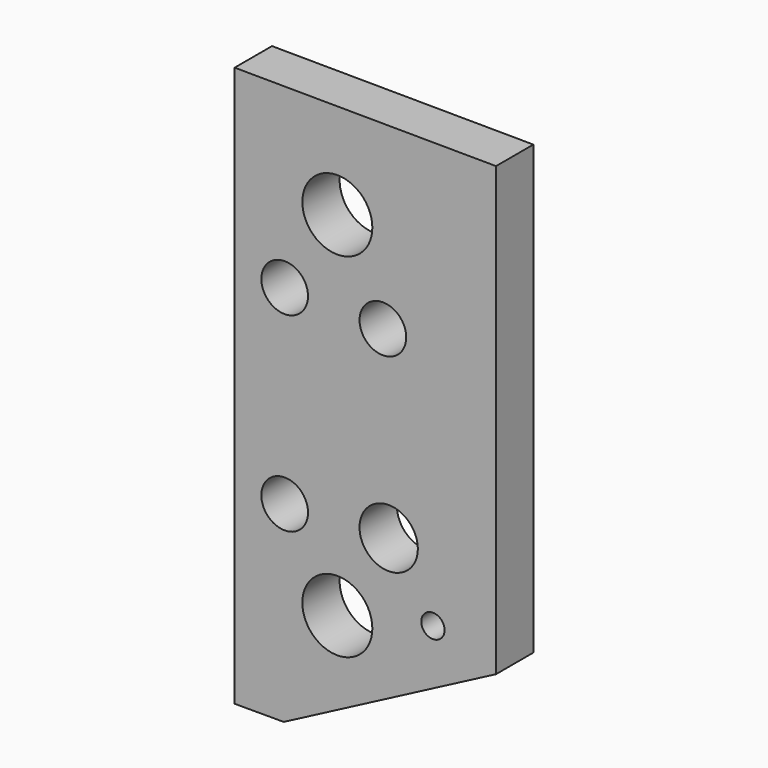
from build123d import *

# Parameters (mm, degrees)
F0_R     = 4.7625
F0_R_2   = 3.175
F0_R_3   = 1.5875
F0_R_4   = 3.96875
F1_DEPTH = 6.35


with BuildPart() as f1:
    # F0 (on Front) → F1 (new body)
    with BuildSketch(Plane.XZ):
        Polygon((-13.97, 61.09232), (-13.97, -15.10768), (-7.2898, -15.10768), (21.59, 0), (21.59, 60.86069), align=None)
        Circle(F0_R, mode=Mode.SUBTRACT)
        with Locations((-7.1628, 11.049)):
            Circle(F0_R_2, mode=Mode.SUBTRACT)
        with Locations((13.0048, 2.9972)):
            Circle(F0_R_3, mode=Mode.SUBTRACT)
        with Locations((6.985, 11.557)):
            Circle(F0_R_4, mode=Mode.SUBTRACT)
        with Locations((-7.1628, 36.957)):
            Circle(F0_R_2, mode=Mode.SUBTRACT)
        with Locations((0, 48.006)):
            Circle(F0_R, mode=Mode.SUBTRACT)
        with Locations((6.1976, 36.3728)):
            Circle(F0_R_2, mode=Mode.SUBTRACT)
    extrude(amount=F1_DEPTH)


solid = f1.part
